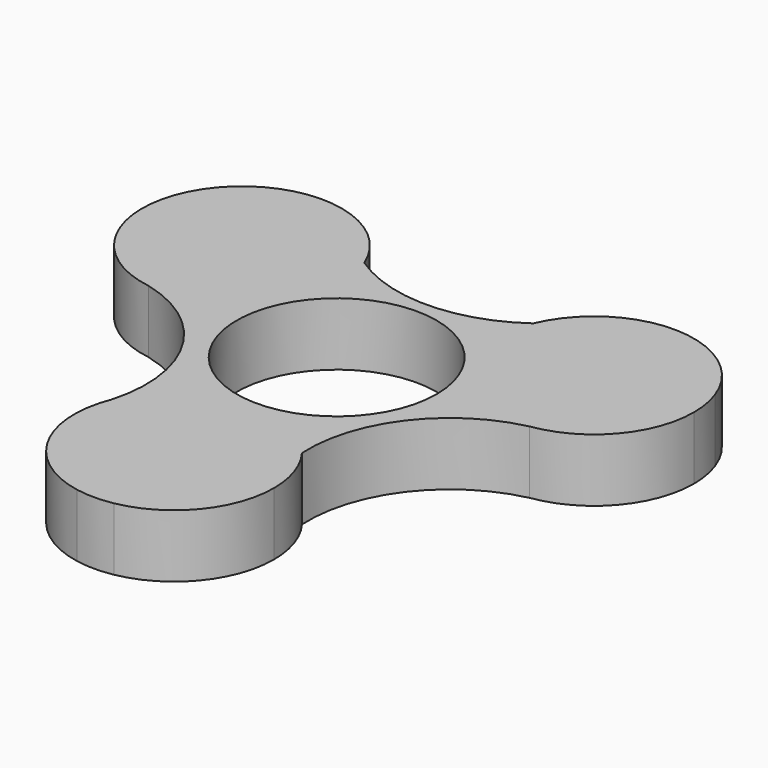
from build123d import *

# Parameters (mm, degrees)
F0_R     = 11.125
F1_DEPTH = 7


with BuildPart() as f1:
    # F0 (on Top) → F1 (new body)
    with BuildSketch(Plane.XY):
        with BuildLine():
            ThreePointArc((2.037572, -33.564942), (8.556682, -29.737896), (11.125, -22.628127))
            ThreePointArc((11.125, -22.628127), (10.55403, -19.109877), (8.899727, -15.952762))
            ThreePointArc((8.899727, -15.952762), (-1.46999, -11.600672), (-10.337576, -18.517148))
            ThreePointArc((-10.337576, -18.517148), (-10.522788, -19.112066), (-10.732419, -19.698825))
            ThreePointArc((-10.732419, -19.698825), (-9.425257, -28.538301), (-2.037572, -33.564942))
            ThreePointArc((-2.037572, -33.564942), (0, -33.626731), (2.037572, -33.564942))
        make_face()
        with BuildLine():
            ThreePointArc((-10.337576, -18.517148), (-1.46999, -11.600672), (8.899727, -15.952762))
            ThreePointArc((8.899727, -15.952762), (12.080882, -5.568253), (21.215107, 0.307436))
            ThreePointArc((21.215107, 0.307436), (10.78902, 4.517495), (9.359899, 15.670319))
            ThreePointArc((9.359899, 15.670319), (0.096944, 12.613685), (-9.250085, 15.402663))
            ThreePointArc((-9.250085, 15.402663), (-8.667904, 13.395096), (-8.471533, 11.314063))
            ThreePointArc((-8.471533, 11.314063), (-12.324704, 2.894673), (-21.215107, 0.307436))
            ThreePointArc((-21.215107, 0.307436), (-11.768489, -6.788973), (-10.337576, -18.517148))
        make_face()
        Circle(F0_R, mode=Mode.SUBTRACT)
        with BuildLine():
            ThreePointArc((-2.037572, -33.564942), (0, -33.753127), (2.037572, -33.564942))
            ThreePointArc((2.037572, -33.564942), (0, -33.626731), (-2.037572, -33.564942))
        make_face()
        with BuildLine():
            ThreePointArc((-10.732419, -19.698825), (-10.522788, -19.112066), (-10.337576, -18.517148))
            ThreePointArc((-10.337576, -18.517148), (-10.551553, -19.102455), (-10.732419, -19.698825))
        make_face()
        with BuildLine():
            ThreePointArc((9.359899, 15.670319), (10.78902, 4.517495), (21.215107, 0.307436))
            ThreePointArc((21.215107, 0.307436), (28.015923, 4.042235), (30.721533, 11.314063))
            ThreePointArc((30.721533, 11.314063), (30.561721, 13.192963), (30.086878, 15.017882))
            ThreePointArc((30.086878, 15.017882), (29.121603, 16.813365), (28.049307, 18.54706))
            ThreePointArc((28.049307, 18.54706), (17.904065, 22.30957), (9.359899, 15.670319))
        make_face()
        with BuildLine():
            ThreePointArc((-30.086878, 15.017882), (-29.123116, 5.568645), (-21.215107, 0.307436))
            ThreePointArc((-21.215107, 0.307436), (-12.324704, 2.894673), (-8.471533, 11.314063))
            ThreePointArc((-8.471533, 11.314063), (-8.667904, 13.395096), (-9.250085, 15.402663))
            ThreePointArc((-9.250085, 15.402663), (-17.761238, 22.286634), (-28.049307, 18.54706))
            ThreePointArc((-28.049307, 18.54706), (-29.121603, 16.813365), (-30.086878, 15.017882))
        make_face()
        with BuildLine():
            ThreePointArc((-28.049307, 18.54706), (-29.231065, 16.876563), (-30.086878, 15.017882))
            ThreePointArc((-30.086878, 15.017882), (-29.121603, 16.813365), (-28.049307, 18.54706))
        make_face()
        with BuildLine():
            ThreePointArc((30.086878, 15.017882), (29.231065, 16.876563), (28.049307, 18.54706))
            ThreePointArc((28.049307, 18.54706), (29.121603, 16.813365), (30.086878, 15.017882))
        make_face()
    extrude(amount=F1_DEPTH)


solid = f1.part
